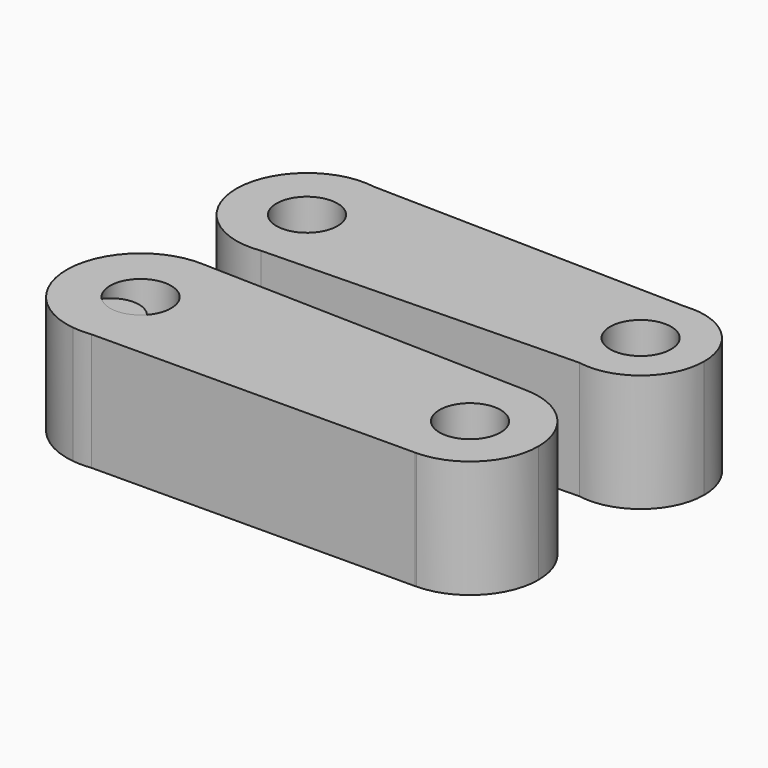
from build123d import *

# Parameters (mm, degrees)
F0_R     = 6.597207
F1_DEPTH = 25.4
F2_R     = 6.065565
F3_DEPTH = 25.4
F4_R     = 6.597207
F5_DEPTH = 25.4


with BuildPart() as f1:
    # F0 (on Top) → F1 (new body)
    with BuildSketch(Plane.XY):
        with BuildLine():
            ThreePointArc((-27.443484, -15.108255), (-18.074588, -9.998342), (-14.343559, 0))
            ThreePointArc((-14.343559, 0), (-17.953345, 9.856775), (-27.075145, 15.05094))
            ThreePointArc((-27.075145, 15.05094), (-44.866825, 0.186386), (-27.443484, -15.108255))
        make_face()
        with Locations((-29.605761, 0)):
            Circle(F0_R, mode=Mode.SUBTRACT)
        with BuildLine():
            ThreePointArc((-27.075145, 15.05094), (-17.953345, 9.856775), (-14.343559, 0))
            ThreePointArc((-14.343559, 0), (-18.074588, -9.998342), (-27.443484, -15.108255))
            Line((-27.443484, -15.108255), (40.033196, -13.511142))
            ThreePointArc((40.033196, -13.511142), (28.753176, 0.520221), (41.063349, 13.657102))
            Line((41.063349, 13.657102), (-27.075145, 15.05094))
        make_face()
        with BuildLine():
            ThreePointArc((56.20263, 0), (51.669435, 10.194536), (41.063349, 13.657102))
            ThreePointArc((41.063349, 13.657102), (28.753176, 0.520221), (40.033196, -13.511142))
            ThreePointArc((40.033196, -13.511142), (51.276557, -10.535672), (56.20263, 0))
        make_face()
        with Locations((42.472973, 0)):
            Circle(F0_R, mode=Mode.SUBTRACT)
    extrude(amount=F1_DEPTH)


with BuildPart() as f3:
    # F2 (on Top) → F3 (new body)
    with BuildSketch(Plane.XY):
        with Locations((-32.560728, -49.233526)):
            Circle(F2_R)
    extrude(amount=F3_DEPTH)


with BuildPart() as f5:
    # F4 (on Top) → F5 (new body)
    with BuildSketch(Plane.XY):
        with BuildLine():
            ThreePointArc((-30.706154, -56.833053), (-20.762121, -51.543046), (-16.787599, -41.004017))
            ThreePointArc((-16.787599, -41.004017), (-21.161974, -30.026939), (-31.887233, -25.067078))
            ThreePointArc((-31.887233, -25.067078), (-48.649153, -39.635809), (-34.622259, -56.853709))
            Line((-34.622259, -56.853709), (-30.706154, -56.833053))
        make_face()
        with Locations((-32.747753, -41.004017)):
            Circle(F4_R, mode=Mode.SUBTRACT)
        with BuildLine():
            ThreePointArc((-31.887233, -25.067078), (-21.161974, -30.026939), (-16.787599, -41.004017))
            ThreePointArc((-16.787599, -41.004017), (-20.762121, -51.543046), (-30.706154, -56.833053))
            Line((-30.706154, -56.833053), (38.868471, -56.466072))
            ThreePointArc((38.868471, -56.466072), (24.243621, -41.532109), (39.233736, -26.964818))
            Line((39.233736, -26.964818), (-31.887233, -25.067078))
        make_face()
        with BuildLine():
            ThreePointArc((-34.622259, -56.853709), (-32.66357, -56.963949), (-30.706154, -56.833053))
            Line((-30.706154, -56.833053), (-34.622259, -56.853709))
        make_face()
        with BuildLine():
            ThreePointArc((53.746224, -41.714743), (49.509795, -31.368577), (39.233736, -26.964818))
            ThreePointArc((39.233736, -26.964818), (24.243621, -41.532109), (38.868471, -56.466072))
            Line((38.868471, -56.466072), (39.275847, -56.463924))
            ThreePointArc((39.275847, -56.463924), (49.524554, -52.045887), (53.746224, -41.714743))
        make_face()
        with Locations((38.994357, -41.714743)):
            Circle(F4_R, mode=Mode.SUBTRACT)
        with BuildLine():
            Line((39.275847, -56.463924), (38.868471, -56.466072))
            ThreePointArc((38.868471, -56.466072), (39.072167, -56.466404), (39.275847, -56.463924))
        make_face()
    extrude(amount=F5_DEPTH)


solid = Compound([f1.part, f3.part, f5.part])
